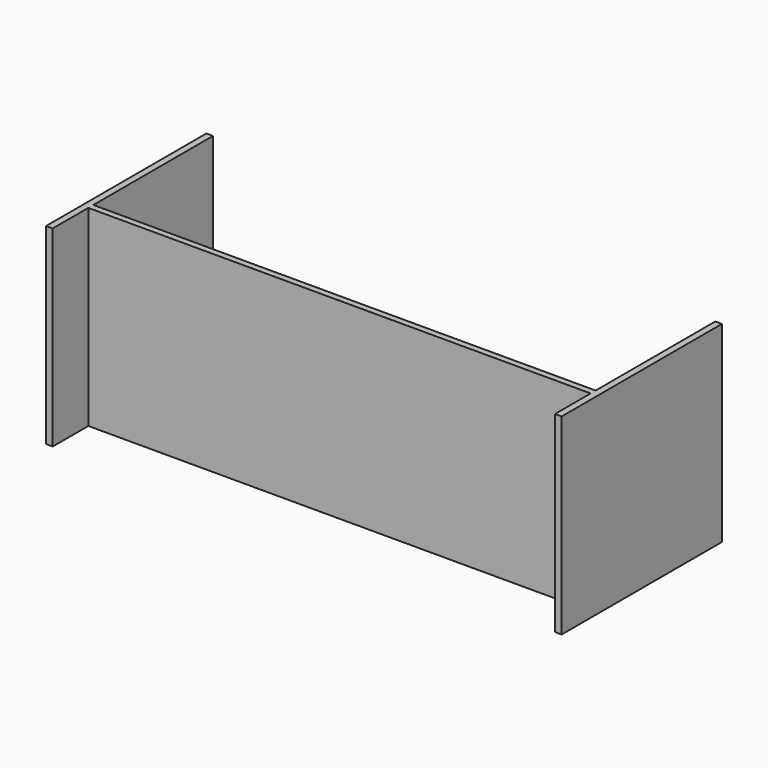
from build123d import *

# Parameters (mm, degrees)
F0_W     = 914.4
F0_H     = 876.3
F1_DEPTH = 30.226
F2_W     = 28.575
F2_H     = 876.3
F3_DEPTH = 2292.35
F5_DEPTH = 876.3


with BuildPart() as f1:
    # F0 (on Right) → F1 (new body)
    with BuildSketch(Plane.YZ):
        Rectangle(F0_W, F0_H)
    extrude(amount=F1_DEPTH)

    # F2 (on face) → F3 (join)
    with BuildSketch(Plane.YZ.offset(30.226)):
        with Locations((-239.7125, 0)):
            Rectangle(F2_W, F2_H)
    extrude(amount=F3_DEPTH)

    # F4 (on face) → F5 (join)
    with BuildSketch(Plane.XY.offset(438.15)):
        Polygon((2322.576, -225.425), (2322.576, -254), (2322.576, -457.2), (2352.802, -457.2), (2352.802, 457.2), (2322.576, 457.2), align=None)
    extrude(amount=-F5_DEPTH)


solid = f1.part
